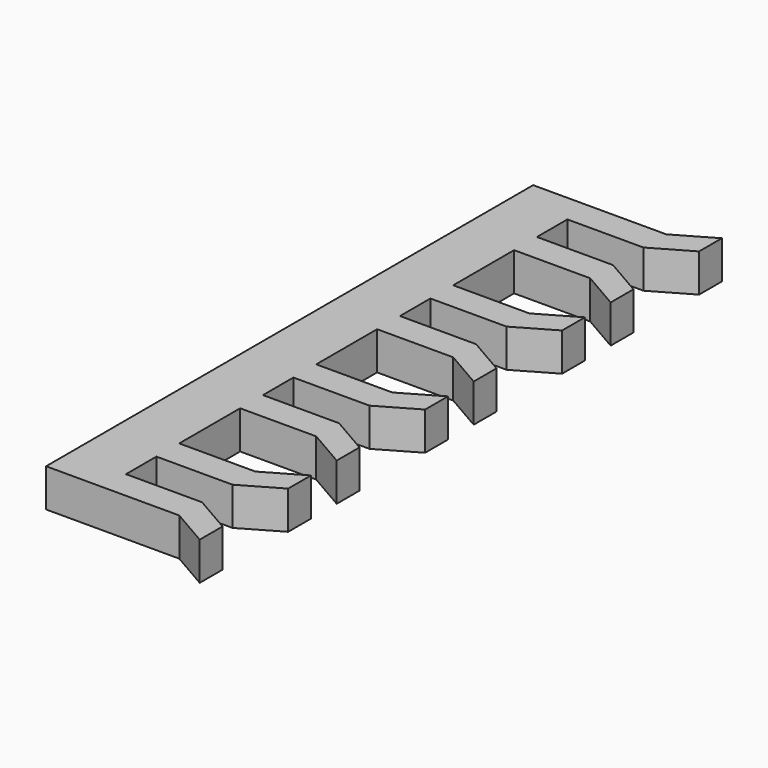
from build123d import *

# Parameters (mm, degrees)
F1_DEPTH = 2
F3_DEPTH = 2


with BuildPart() as f1:
    # F0 (on Top) → F1 (new body)
    with BuildSketch(Plane.XY):
        Polygon((0, 32), (0, 0), (7, 0), (7, 1.5), (3, 1.5), (3, 3.5), (7, 3.5), (7, 5), (3, 5), (3, 9), (7, 9), (7, 10.5), (3, 10.5), (3, 12.5), (7, 12.5), (7, 14), (3, 14), (3, 18), (7, 18), (7, 19.5), (3, 19.5), (3, 21.5), (7, 21.5), (7, 23), (3, 23), (3, 27), (7, 27), (7, 28.5), (3, 28.5), (3, 30.5), (7, 30.5), (7, 32), align=None)
    extrude(amount=F1_DEPTH)

    # F2 (on face) → F3 (join, through all)
    with BuildSketch(Plane.XY.offset(2)):
        Polygon((7, 1.5), (7, 0), (9, -1.154701), (9, 0.345299), align=None)
        Polygon((7, 5), (7, 3.5), (9, 4.654701), (9, 6.154701), align=None)
        Polygon((7, 12.5), (9, 13.654701), (9, 15.154701), (7, 14), align=None)
        Polygon((9, 7.845299), (9, 9.345299), (7, 10.5), (7, 9), align=None)
        Polygon((7, 21.5), (9, 22.654701), (9, 24.154701), (7, 23), align=None)
        Polygon((9, 16.845299), (9, 18.345299), (7, 19.5), (7, 18), align=None)
        Polygon((7, 30.5), (9, 31.654701), (9, 33.154701), (7, 32), align=None)
        Polygon((9, 25.845299), (9, 27.345299), (7, 28.5), (7, 27), align=None)
    extrude(amount=-F3_DEPTH)


solid = f1.part
